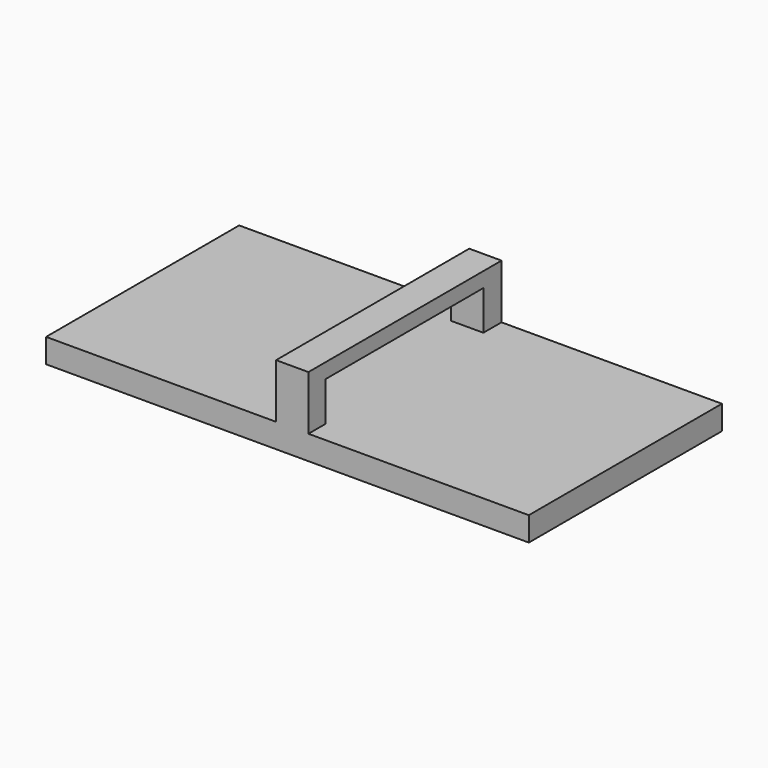
from build123d import *

# Parameters (mm, degrees)
F0_W      = 400
F0_H      = 200
F1_DEPTH  = 25
F2_W      = 26.7749875784
F2_H      = 200.0415027142
F3_DEPTH  = 45
F4_W      = 163.5136380792
F4_H      = 32.6408185065
F5_DEPTH  = 400.001
F8_DEPTH  = 25
F8_TAPER  = -60
F9_W      = 212.9299342632
F9_H      = 224.1696352139
F10_DEPTH = 25
F12_W     = 417.4379836768
F12_H     = 216.8577280827
F13_DEPTH = 25


with BuildPart() as f1:
    # F0 (on Top) → F1 (new body)
    with BuildSketch(Plane.XY):
        with Locations((200, 100)):
            Rectangle(F0_W, F0_H)
    extrude(amount=-F1_DEPTH)

    # F2 (on Top) → F3 (join)
    with BuildSketch(Plane.XY):
        with Locations((203.9749994874, 100.0207513571)):
            Rectangle(F2_W, F2_H)
    extrude(amount=F3_DEPTH)

    # F4 (on Right) → F5 (cut, through all)
    with BuildSketch(Plane.YZ):
        with Locations((99.4616560638, 16.3204092532)):
            Rectangle(F4_W, F4_H)
    extrude(amount=F5_DEPTH, mode=Mode.SUBTRACT)

    # F7 (on offset) → F8 (cut)
    with BuildSketch(Plane.XY.offset(-20)):
        with BuildLine():
            add(Edge.make_bspline(
                [(391.8431701423, 100.8600369096), (391.8431701423, 259.7252513864), (102.5679333925, 180.292644148), (-186.7073033574, 100.8600369096), (102.5679333925, 21.4274296712), (391.8431701423, -58.0051775672), (391.8431701423, 100.8600369096)],
                knots=[0, 0, 0, 2.0943951024, 2.0943951024, 4.1887902048, 4.1887902048, 6.2831853072, 6.2831853072, 6.2831853072], degree=2, weights=[1, 0.5, 1, 0.5, 1, 0.5, 1]))
        make_face()
    extrude(amount=-F8_DEPTH, taper=F8_TAPER, mode=Mode.SUBTRACT)

    # F9 (on offset) → F10 (cut)
    with BuildSketch(Plane.XY.offset(-20)):
        with Locations((308.3530813456, 101.8974217586)):
            Rectangle(F9_W, F9_H)
    extrude(amount=-F10_DEPTH, mode=Mode.SUBTRACT)

    # F12 (on offset) → F13 (cut)
    with BuildSketch(Plane.XY.offset(-20)):
        with Locations((200.3057235852, 101.122589549)):
            Rectangle(F12_W, F12_H)
    extrude(amount=-F13_DEPTH, mode=Mode.SUBTRACT)


solid = f1.part
